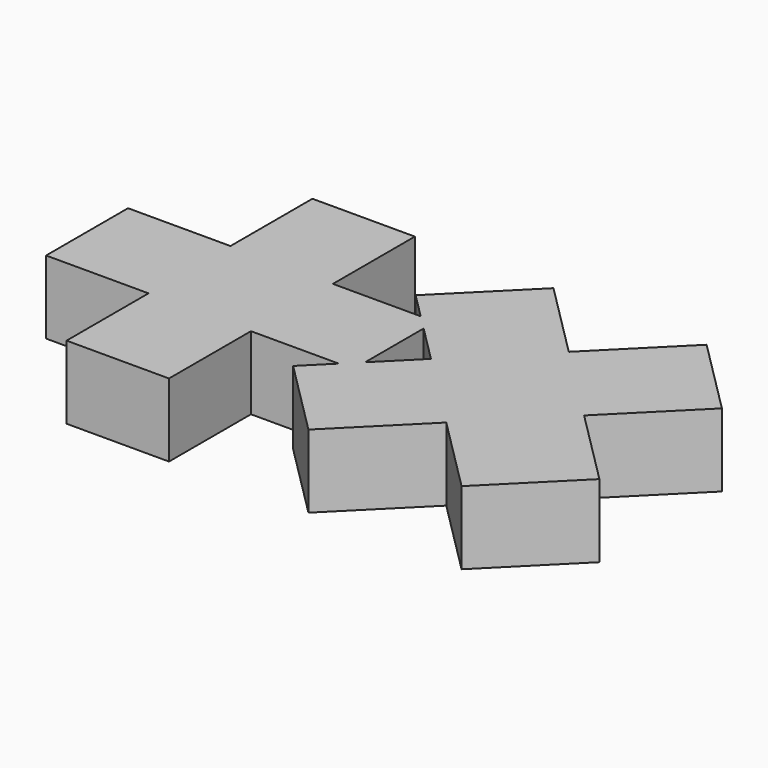
from build123d import *

# Parameters (mm, degrees)
F1_DEPTH = 25


with BuildPart() as f1:
    # F0 (on Top) → F1 (new body)
    with BuildSketch(Plane.XY):
        Polygon((29.8591275221, 42.6615241542), (-5.1408724779, 42.6615241542), (-5.1408724779, 7.6615241542), (-40.1408724779, 7.6615241542), (-40.1408724779, -27.3384758458), (-5.1408724779, -27.3384758458), (-5.1408724779, -62.3384758458), (29.8591275221, -62.3384758458), (29.8591275221, -27.3384758458), (29.8591275221, -9.8384758458), (29.8591275221, 7.6615241542), align=None)
        Polygon((59.8591275221, 7.6615241542), (29.8591275221, 7.6615241542), (29.8591275221, -9.8384758458), (64.8591275221, -9.8384758458), (64.8591275221, 2.6615241542), align=None)
        Polygon((64.8591275221, 7.6615241542), (59.8591275221, 7.6615241542), (64.8591275221, 2.6615241542), align=None)
        Polygon((64.8591275221, -22.3384758458), (59.8591275221, -27.3384758458), (64.8591275221, -27.3384758458), align=None)
        Polygon((64.8591275221, -9.8384758458), (29.8591275221, -9.8384758458), (29.8591275221, -27.3384758458), (59.8591275221, -27.3384758458), (64.8591275221, -22.3384758458), align=None)
        Polygon((51.1961766182, 16.3244750581), (59.8591275221, 7.6615241542), (64.8591275221, 7.6615241542), (64.8591275221, 2.6615241542), (77.3591275221, -9.8384758458), (103.522078426, -9.8384758458), (103.522078426, 16.3244750581), (77.3591275221, 42.4874259621), align=None)
        Polygon((103.522078426, -9.8384758458), (77.3591275221, -9.8384758458), (64.8591275221, -22.3384758458), (64.8591275221, -27.3384758458), (59.8591275221, -27.3384758458), (51.1961766182, -36.0014267497), (77.3591275221, -62.1643776536), (103.522078426, -36.0014267497), align=None)
        Polygon((103.522078426, 16.3244750581), (103.522078426, -9.8384758458), (129.6850293299, -9.8384758458), (155.8479802338, 16.3244750581), (129.6850293299, 42.4874259621), align=None)
        Polygon((129.6850293299, -9.8384758458), (103.522078426, -9.8384758458), (103.522078426, -36.0014267497), (129.6850293299, -62.1643776536), (155.8479802338, -36.0014267497), align=None)
        Polygon((59.8591275221, 7.6615241542), (29.8591275221, 7.6615241542), (29.8591275221, -9.8384758458), (64.8591275221, -9.8384758458), (64.8591275221, 2.6615241542), align=None)
        Polygon((64.8591275221, -9.8384758458), (29.8591275221, -9.8384758458), (29.8591275221, -27.3384758458), (59.8591275221, -27.3384758458), (64.8591275221, -22.3384758458), align=None)
    extrude(amount=F1_DEPTH)


solid = f1.part
